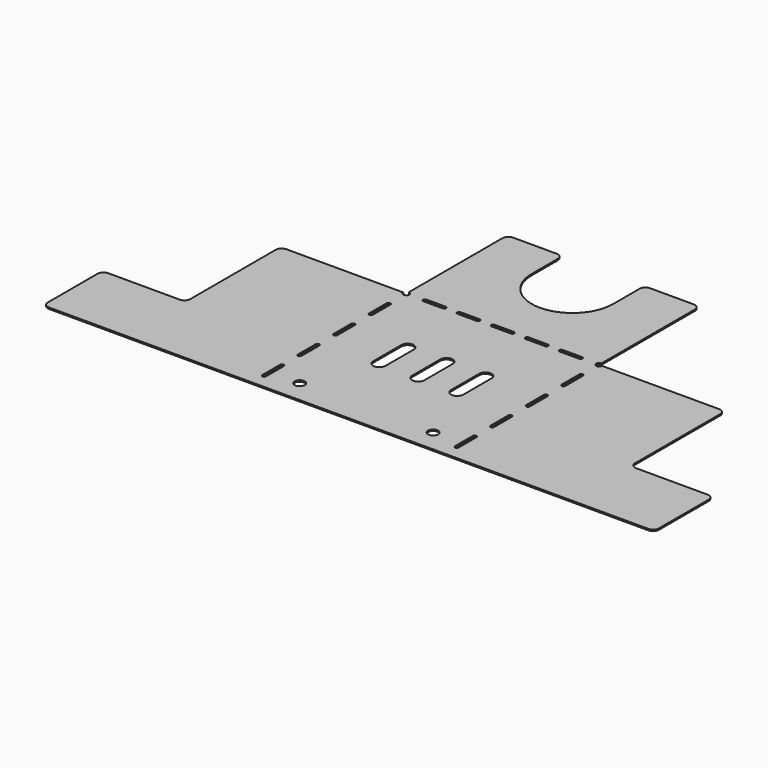
from build123d import *

# Parameters (mm, degrees)
F0_W     = 165.1
F0_H     = 165.1
F0_W_2   = 1.5875
F1_DEPTH = 1.1811
F2_R     = 4.3688
F3_DEPTH = 1.1811
F4_R     = 5.08
F5_R     = 2.54
F6_DEPTH = 1.1811


with BuildPart() as f1:
    # F0 (on Top) → F1 (new body)
    with BuildSketch(Plane.XY):
        with Locations((0, 82.55)):
            Rectangle(F0_W, F0_H)
        with Locations((-83.34375, 82.55)):
            Rectangle(F0_W_2, F0_H)
        with Locations((83.34375, 82.55)):
            Rectangle(F0_W_2, F0_H)
        with BuildLine():
            Line((-82.55, 273.05), (-82.55, 165.1))
            Line((-82.55, 165.1), (82.55, 165.1))
            Line((82.55, 165.1), (82.55, 273.05))
            Line((82.55, 273.05), (34.925, 273.05))
            Line((34.925, 273.05), (34.925, 239.8014))
            ThreePointArc((34.925, 239.8014), (0, 204.8764), (-34.925, 239.8014))
            Line((-34.925, 239.8014), (-34.925, 273.05))
            Line((-34.925, 273.05), (-82.55, 273.05))
        make_face()
        Polygon((-261.9375, 0), (-84.1375, 0), (-84.1375, 165.1), (-190.5, 165.1), (-190.5, 63.5), (-261.9375, 63.5), align=None)
        Polygon((84.1375, 165.1), (84.1375, 0), (261.9375, 0), (261.9375, 63.5), (190.5, 63.5), (190.5, 165.1), align=None)
    extrude(amount=F1_DEPTH)

    # F2 (on face) → F3 (cut, through all)
    with BuildSketch(Plane.XY.offset(1.1811)):
        with Locations((-57.15, 19.05)):
            Circle(F2_R)
        with Locations((57.15, 19.05)):
            Circle(F2_R)
        with BuildLine():
            ThreePointArc((-28.0416, 104.8004), (-33.3502, 110.109), (-38.6588, 104.8004))
            Line((-38.6588, 104.8004), (-38.6588, 74.6252))
            ThreePointArc((-38.6588, 74.6252), (-33.3502, 69.3166), (-28.0416, 74.6252))
            Line((-28.0416, 74.6252), (-28.0416, 104.8004))
        make_face()
        with BuildLine():
            ThreePointArc((-5.3086, 74.6252), (0, 69.3166), (5.3086, 74.6252))
            Line((5.3086, 74.6252), (5.3086, 104.8004))
            ThreePointArc((5.3086, 104.8004), (0, 110.109), (-5.3086, 104.8004))
            Line((-5.3086, 104.8004), (-5.3086, 74.6252))
        make_face()
        with BuildLine():
            ThreePointArc((38.6588, 104.8004), (33.3502, 110.109), (28.0416, 104.8004))
            Line((28.0416, 104.8004), (28.0416, 74.6252))
            ThreePointArc((28.0416, 74.6252), (33.3502, 69.3166), (38.6588, 74.6252))
            Line((38.6588, 74.6252), (38.6588, 104.8004))
        make_face()
    extrude(amount=-F3_DEPTH, mode=Mode.SUBTRACT)

    # F4
    f4_edges = [f1.edges().sort_by_distance(p)[0] for p in [
        (-82.55, 273.05, 0.59055),
        (-34.925, 273.05, 0.59055),
        (34.925, 273.05, 0.59055),
        (82.55, 273.05, 0.59055),
        (190.5, 165.1, 0.59055),
        (261.9375, 63.5, 0.59055),
        (190.5, 63.5, 0.59055),
        (261.9375, 0, 0.59055),
        (-261.9375, 0, 0.59055),
        (-261.9375, 63.5, 0.59055),
        (-190.5, 63.5, 0.59055),
        (-190.5, 165.1, 0.59055),
    ]]
    fillet(f4_edges, radius=F4_R)

    # F5 (on face) → F6 (cut, through all)
    with BuildSketch(Plane.XY.offset(1.1811)):
        with BuildLine():
            ThreePointArc((-80.9625, 146.05), (-82.55, 147.6375), (-84.1375, 146.05))
            Line((-84.1375, 146.05), (-84.1375, 127))
            ThreePointArc((-84.1375, 127), (-82.55, 125.4125), (-80.9625, 127))
            Line((-80.9625, 127), (-80.9625, 146.05))
        make_face()
        with BuildLine():
            ThreePointArc((-80.9625, 107.95), (-82.55, 109.5375), (-84.1375, 107.95))
            Line((-84.1375, 107.95), (-84.1375, 88.9))
            ThreePointArc((-84.1375, 88.9), (-82.55, 87.3125), (-80.9625, 88.9))
            Line((-80.9625, 88.9), (-80.9625, 107.95))
        make_face()
        with BuildLine():
            ThreePointArc((-80.9625, 69.85), (-82.55, 71.4375), (-84.1375, 69.85))
            Line((-84.1375, 69.85), (-84.1375, 50.8))
            ThreePointArc((-84.1375, 50.8), (-82.55, 49.2125), (-80.9625, 50.8))
            Line((-80.9625, 50.8), (-80.9625, 69.85))
        make_face()
        with BuildLine():
            ThreePointArc((-80.9625, 31.75), (-82.55, 33.3375), (-84.1375, 31.75))
            Line((-84.1375, 31.75), (-84.1375, 12.7))
            ThreePointArc((-84.1375, 12.7), (-82.55, 11.1125), (-80.9625, 12.7))
            Line((-80.9625, 12.7), (-80.9625, 31.75))
        make_face()
        with BuildLine():
            Line((84.1375, 127), (84.1375, 146.05))
            ThreePointArc((84.1375, 146.05), (82.55, 147.6375), (80.9625, 146.05))
            Line((80.9625, 146.05), (80.9625, 127))
            ThreePointArc((80.9625, 127), (82.55, 125.4125), (84.1375, 127))
        make_face()
        with BuildLine():
            Line((80.9625, 107.95), (80.9625, 88.9))
            ThreePointArc((80.9625, 88.9), (82.55, 87.3125), (84.1375, 88.9))
            Line((84.1375, 88.9), (84.1375, 107.95))
            ThreePointArc((84.1375, 107.95), (82.55, 109.5375), (80.9625, 107.95))
        make_face()
        with BuildLine():
            Line((84.1375, 50.8), (84.1375, 69.85))
            ThreePointArc((84.1375, 69.85), (82.55, 71.4375), (80.9625, 69.85))
            Line((80.9625, 69.85), (80.9625, 50.8))
            ThreePointArc((80.9625, 50.8), (82.55, 49.2125), (84.1375, 50.8))
        make_face()
        with BuildLine():
            Line((80.9625, 31.75), (80.9625, 12.7))
            ThreePointArc((80.9625, 12.7), (82.55, 11.1125), (84.1375, 12.7))
            Line((84.1375, 12.7), (84.1375, 31.75))
            ThreePointArc((84.1375, 31.75), (82.55, 33.3375), (80.9625, 31.75))
        make_face()
        with BuildLine():
            ThreePointArc((-66.675, 166.6875), (-68.2625, 165.1), (-66.675, 163.5125))
            Line((-66.675, 163.5125), (-50.165, 163.5125))
            ThreePointArc((-50.165, 163.5125), (-48.5775, 165.1), (-50.165, 166.6875))
            Line((-50.165, 166.6875), (-66.675, 166.6875))
        make_face()
        with BuildLine():
            ThreePointArc((-37.465, 166.6875), (-39.0525, 165.1), (-37.465, 163.5125))
            Line((-37.465, 163.5125), (-20.955, 163.5125))
            ThreePointArc((-20.955, 163.5125), (-19.3675, 165.1), (-20.955, 166.6875))
            Line((-20.955, 166.6875), (-37.465, 166.6875))
        make_face()
        with BuildLine():
            ThreePointArc((-8.255, 166.6875), (-9.8425, 165.1), (-8.255, 163.5125))
            Line((-8.255, 163.5125), (8.255, 163.5125))
            ThreePointArc((8.255, 163.5125), (9.8425, 165.1), (8.255, 166.6875))
            Line((8.255, 166.6875), (-8.255, 166.6875))
        make_face()
        with BuildLine():
            ThreePointArc((20.955, 166.6875), (19.3675, 165.1), (20.955, 163.5125))
            Line((20.955, 163.5125), (37.465, 163.5125))
            ThreePointArc((37.465, 163.5125), (39.0525, 165.1), (37.465, 166.6875))
            Line((37.465, 166.6875), (20.955, 166.6875))
        make_face()
        with BuildLine():
            ThreePointArc((50.165, 166.6875), (48.5775, 165.1), (50.165, 163.5125))
            Line((50.165, 163.5125), (66.675, 163.5125))
            ThreePointArc((66.675, 163.5125), (68.2625, 165.1), (66.675, 166.6875))
            Line((66.675, 166.6875), (50.165, 166.6875))
        make_face()
        with Locations((-82.55, 165.1)):
            Circle(F5_R)
        with Locations((82.55, 165.1)):
            Circle(F5_R)
    extrude(amount=-F6_DEPTH, mode=Mode.SUBTRACT)


solid = f1.part
